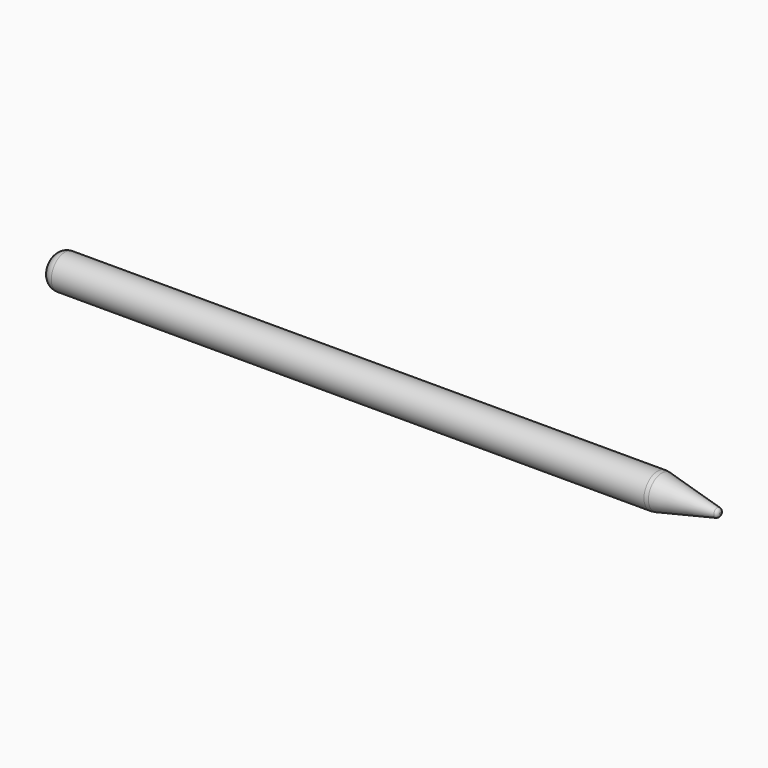
from build123d import *

# Parameters (mm, degrees)
F2_R = 2.872773
F3_R = 0.969826
F4_R = 5.08


with BuildPart() as f1:
    # F0 (on Top) → F1 (revolve)
    with BuildSketch(Plane.XY):
        Polygon((125.30574, 4.5), (-34.69426, 4.5), (-34.69426, 0), (141.30574, 0), (141.30574, 1), align=None)
    revolve(axis=Axis((0.009605, 0, 0), (1, 0, 0)))

    # F2
    f2_edges = [f1.edges().sort_by_distance(p)[0] for p in [
        (-34.69426, -4.5, 0),
    ]]
    fillet(f2_edges, radius=F2_R)

    # F3
    f3_edges = [f1.edges().sort_by_distance(p)[0] for p in [
        (141.30574, -1, 0),
    ]]
    fillet(f3_edges, radius=F3_R)

    # F4
    f4_edges = [f1.edges().sort_by_distance(p)[0] for p in [
        (125.30574, -4.5, 0),
    ]]
    fillet(f4_edges, radius=F4_R)


solid = f1.part
